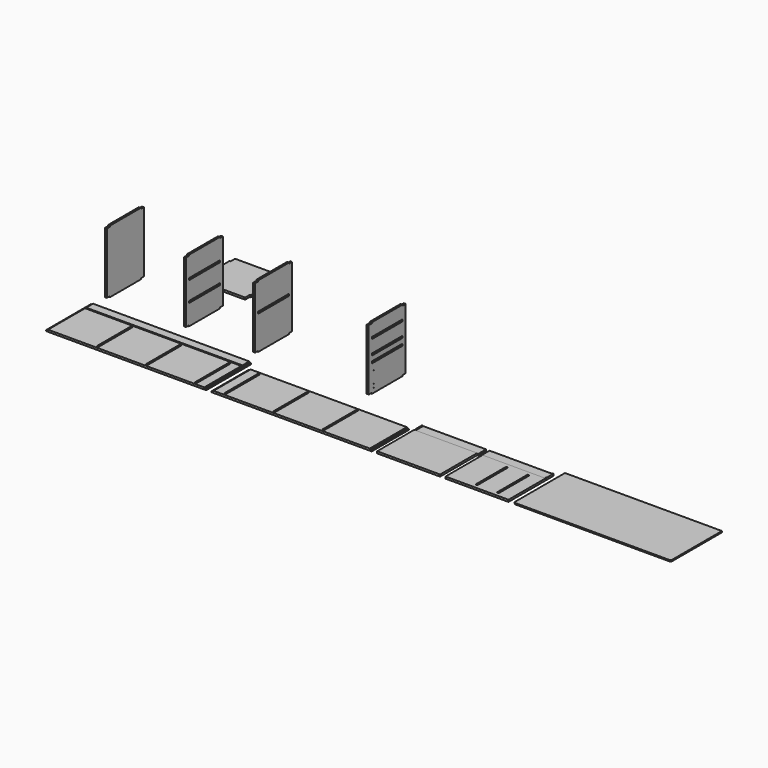
from build123d import *

# Parameters (mm, degrees)
F3_W      = 1480
F3_H      = 520
F4_DEPTH  = 18
F5_W      = 1444
F5_H      = 12.5
F6_DEPTH  = 9
F7_W      = 1480
F7_H      = 428
F8_DEPTH  = 18
F9_W      = 18
F9_H      = 428
F10_DEPTH = 9
F11_W     = 582
F11_H     = 520
F12_DEPTH = 18
F13_W     = 582
F13_H     = 92
F14_DEPTH = 4
F15_W     = 582
F15_H     = 520
F16_DEPTH = 18
F17_W     = 582
F17_H     = 92
F18_DEPTH = 4
F19_W     = 92
F19_H     = 14
F20_DEPTH = 9
F21_W     = 92
F21_H     = 14
F22_DEPTH = 9
F23_W     = 9
F23_H     = 79.5
F24_DEPTH = 4
F25_W     = 9
F25_H     = 79.5
F26_DEPTH = 4
F28_DEPTH = 12
F29_W     = 428
F29_H     = 564
F30_DEPTH = 18
F31_W     = 18
F31_H     = 356
F32_DEPTH = 9
F33_W     = 18
F33_H     = 356
F34_DEPTH = 9
F38_W     = 356
F38_H     = 18
F39_DEPTH = 9
F40_W     = 356
F40_H     = 18
F41_DEPTH = 9
F42_DEPTH = 18
F43_W     = 356
F43_H     = 18
F44_DEPTH = 18
F43_R     = 1
F45_DEPTH = 9
F46_W     = 18
F46_H     = 356
F47_DEPTH = 9
F48_W     = 435.3333
F48_H     = 428
F49_DEPTH = 18
F50_W     = 320
F50_H     = 18
F51_DEPTH = 9
F52_W     = 320
F52_H     = 18
F53_DEPTH = 9
F54_R     = 5
F54_2_R   = 5
F54_3_R   = 5
F54_4_R   = 5


with BuildPart() as f4:
    # F3 (on Top) → F4 (new body)
    with BuildSketch(Plane.XY):
        with Locations((740, 260)):
            Rectangle(F3_W, F3_H)
    extrude(amount=F4_DEPTH)

    # F5 (on face) → F6 (cut)
    with BuildSketch(Plane.XY.offset(18)):
        with BuildLine():
            ThreePointArc((9, 433), (10.4644660941, 429.4644660941), (14, 428))
            Line((14, 428), (18, 428))
            Line((18, 428), (18, 440.5))
            Line((18, 440.5), (14, 440.5))
            ThreePointArc((14, 440.5), (10.4644660941, 439.0355339059), (9, 435.5))
            Line((9, 435.5), (9, 433))
        make_face()
        with BuildLine():
            Line((18, 428), (14, 428))
            ThreePointArc((14, 428), (10.4644660941, 429.4644660941), (9, 433))
            Line((9, 433), (9, 435.5))
            ThreePointArc((9, 435.5), (10.4644660941, 439.0355339059), (14, 440.5))
            Line((14, 440.5), (18, 440.5))
            Line((18, 440.5), (18, 520))
            Line((18, 520), (0, 520))
            Line((0, 520), (0, 0))
            Line((0, 0), (18, 0))
            Line((18, 0), (18, 428))
        make_face()
        with Locations((740, 434.25)):
            Rectangle(F5_W, F5_H)
        with BuildLine():
            Line((1462, 440.5), (1462, 428))
            Line((1462, 428), (1466, 428))
            ThreePointArc((1466, 428), (1469.5355339059, 429.4644660941), (1471, 433))
            Line((1471, 433), (1471, 435.5))
            ThreePointArc((1471, 435.5), (1469.5355339059, 439.0355339059), (1466, 440.5))
            Line((1466, 440.5), (1462, 440.5))
        make_face()
        with BuildLine():
            Line((1466, 428), (1462, 428))
            Line((1462, 428), (1462, 0))
            Line((1462, 0), (1480, 0))
            Line((1480, 0), (1480, 520))
            Line((1480, 520), (1462, 520))
            Line((1462, 520), (1462, 440.5))
            Line((1462, 440.5), (1466, 440.5))
            ThreePointArc((1466, 440.5), (1469.5355339059, 439.0355339059), (1471, 435.5))
            Line((1471, 435.5), (1471, 433))
            ThreePointArc((1471, 433), (1469.5355339059, 429.4644660941), (1466, 428))
        make_face()
        with BuildLine():
            ThreePointArc((453.3334, 23), (454.7978660941, 19.4644660941), (458.3334, 18))
            Line((458.3334, 18), (466.3334, 18))
            ThreePointArc((466.3334, 18), (469.8689339059, 19.4644660941), (471.3334, 23))
            Line((471.3334, 23), (471.3334, 405))
            ThreePointArc((471.3334, 405), (469.8689339059, 408.5355339059), (466.3334, 410))
            Line((466.3334, 410), (458.3334, 410))
            ThreePointArc((458.3334, 410), (454.7978660941, 408.5355339059), (453.3334, 405))
            Line((453.3334, 405), (453.3334, 23))
        make_face()
        with BuildLine():
            ThreePointArc((906.6667, 23), (908.1311660941, 19.4644660941), (911.6667, 18))
            Line((911.6667, 18), (919.6667, 18))
            ThreePointArc((919.6667, 18), (923.2022339059, 19.4644660941), (924.6667, 23))
            Line((924.6667, 23), (924.6667, 405))
            ThreePointArc((924.6667, 405), (923.2022339059, 408.5355339059), (919.6667, 410))
            Line((919.6667, 410), (911.6667, 410))
            ThreePointArc((911.6667, 410), (908.1311660941, 408.5355339059), (906.6667, 405))
            Line((906.6667, 405), (906.6667, 23))
        make_face()
        with BuildLine():
            ThreePointArc((1360, 23), (1361.4644660941, 19.4644660941), (1365, 18))
            Line((1365, 18), (1373, 18))
            ThreePointArc((1373, 18), (1376.5355339059, 19.4644660941), (1378, 23))
            Line((1378, 23), (1378, 405))
            ThreePointArc((1378, 405), (1376.5355339059, 408.5355339059), (1373, 410))
            Line((1373, 410), (1365, 410))
            ThreePointArc((1365, 410), (1361.4644660941, 408.5355339059), (1360, 405))
            Line((1360, 405), (1360, 23))
        make_face()
    extrude(amount=-F6_DEPTH, mode=Mode.SUBTRACT)


with BuildPart() as f8:
    # F7 (on Top) → F8 (new body)
    with BuildSketch(Plane.XY):
        with Locations((2270, 214)):
            Rectangle(F7_W, F7_H)
    extrude(amount=F8_DEPTH)

    # F9 (on face) → F10 (cut)
    with BuildSketch(Plane.XY.offset(18)):
        with Locations((1539, 214)):
            Rectangle(F9_W, F9_H)
        with Locations((3001, 214)):
            Rectangle(F9_W, F9_H)
        with BuildLine():
            ThreePointArc((1632, 23), (1633.4644660941, 19.4644660941), (1637, 18))
            Line((1637, 18), (1645, 18))
            ThreePointArc((1645, 18), (1648.5355339059, 19.4644660941), (1650, 23))
            Line((1650, 23), (1650, 405))
            ThreePointArc((1650, 405), (1648.5355339059, 408.5355339059), (1645, 410))
            Line((1645, 410), (1637, 410))
            ThreePointArc((1637, 410), (1633.4644660941, 408.5355339059), (1632, 405))
            Line((1632, 405), (1632, 23))
        make_face()
        with BuildLine():
            ThreePointArc((2085.3333, 23), (2086.7977660941, 19.4644660941), (2090.3333, 18))
            Line((2090.3333, 18), (2098.3333, 18))
            ThreePointArc((2098.3333, 18), (2101.8688339059, 19.4644660941), (2103.3333, 23))
            Line((2103.3333, 23), (2103.3333, 405))
            ThreePointArc((2103.3333, 405), (2101.8688339059, 408.5355339059), (2098.3333, 410))
            Line((2098.3333, 410), (2090.3333, 410))
            ThreePointArc((2090.3333, 410), (2086.7977660941, 408.5355339059), (2085.3333, 405))
            Line((2085.3333, 405), (2085.3333, 23))
        make_face()
        with BuildLine():
            ThreePointArc((2538.6666, 23), (2540.1310660941, 19.4644660941), (2543.6666, 18))
            Line((2543.6666, 18), (2551.6666, 18))
            ThreePointArc((2551.6666, 18), (2555.2021339059, 19.4644660941), (2556.6666, 23))
            Line((2556.6666, 23), (2556.6666, 405))
            ThreePointArc((2556.6666, 405), (2555.2021339059, 408.5355339059), (2551.6666, 410))
            Line((2551.6666, 410), (2543.6666, 410))
            ThreePointArc((2543.6666, 410), (2540.1310660941, 408.5355339059), (2538.6666, 405))
            Line((2538.6666, 405), (2538.6666, 23))
        make_face()
    extrude(amount=-F10_DEPTH, mode=Mode.SUBTRACT)


with BuildPart() as f12:
    # F11 (on Top) → F12 (new body)
    with BuildSketch(Plane.XY):
        with Locations((3351, 260)):
            Rectangle(F11_W, F11_H)
    extrude(amount=F12_DEPTH)

    # F13 (on face) → F14 (cut)
    with BuildSketch(Plane.XY.offset(18)):
        with Locations((3351, 474)):
            Rectangle(F13_W, F13_H)
    extrude(amount=-F14_DEPTH, mode=Mode.SUBTRACT)

    # F21 (on face) → F22 (join)
    with BuildSketch(Plane.YZ.offset(3642)):
        with Locations((474, 7)):
            Rectangle(F21_W, F21_H)
    extrude(amount=F22_DEPTH)

    # F23 (on face) → F24 (join)
    with BuildSketch(Plane.XY.offset(14)):
        with Locations((3064.5, 480.25)):
            Rectangle(F23_W, F23_H)
    extrude(amount=F24_DEPTH)

    # F54#2
    f54_2_edges = [f12.edges().sort_by_distance(p)[0] for p in [
        (3642, 428, 7),
    ]]
    fillet(f54_2_edges, radius=F54_2_R)


with BuildPart() as f16:
    # F15 (on Top) → F16 (new body)
    with BuildSketch(Plane.XY):
        with Locations((3983, 260)):
            Rectangle(F15_W, F15_H)
    extrude(amount=F16_DEPTH)

    # F17 (on face) → F18 (cut)
    with BuildSketch(Plane.XY.offset(18)):
        with Locations((3983, 474)):
            Rectangle(F17_W, F17_H)
    extrude(amount=-F18_DEPTH, mode=Mode.SUBTRACT)

    # F19 (on face) → F20 (join)
    with BuildSketch(Plane(origin=(3692, 0, 0), x_dir=(0, -1, 0), z_dir=(-1, 0, 0))):
        with Locations((-474, 7)):
            Rectangle(F19_W, F19_H)
    extrude(amount=F20_DEPTH)

    # F25 (on face) → F26 (join)
    with BuildSketch(Plane.XY.offset(14)):
        with Locations((4269.5, 480.25)):
            Rectangle(F25_W, F25_H)
    extrude(amount=F26_DEPTH)

    # F46 (on face) → F47 (cut)
    with BuildSketch(Plane.XY.offset(18)):
        with Locations((4146, 214)):
            Rectangle(F46_W, F46_H)
        with Locations((3948, 214)):
            Rectangle(F46_W, F46_H)
    extrude(amount=-F47_DEPTH, mode=Mode.SUBTRACT)

    # F54#3
    f54_3_edges = [f16.edges().sort_by_distance(p)[0] for p in [
        (3692, 428, 7),
    ]]
    fillet(f54_3_edges, radius=F54_3_R)


with BuildPart() as f28:
    # F27 (on Top) → F28 (new body)
    with BuildSketch(Plane.XY):
        Polygon((4324, 10), (4334, 0), (5765, 0), (5775, 10), (5775, 590), (4324, 590), align=None)
    extrude(amount=F28_DEPTH)


with BuildPart() as f30:
    # F29 (on Right) → F30 (new body)
    with BuildSketch(Plane.YZ):
        with Locations((893.9852348983, 282)):
            Rectangle(F29_W, F29_H)
    extrude(amount=F30_DEPTH)

    # F31 (on face) → F32 (join)
    with BuildSketch(Plane(origin=(0, 0, 0), x_dir=(1, 0, 0), z_dir=(0, 0, -1))):
        with Locations((9, -893.9852348983)):
            Rectangle(F31_W, F31_H)
    extrude(amount=F32_DEPTH)

    # F33 (on face) → F34 (join)
    with BuildSketch(Plane.XY.offset(564)):
        with Locations((9, 893.9852348983)):
            Rectangle(F33_W, F33_H)
    extrude(amount=F34_DEPTH)


with BuildPart() as f35_1:
    # F35: copy of F30
    add(f30.part.moved(Location((730, 0, 0))))

    # F38 (on face) → F39 (cut)
    with BuildSketch(Plane.YZ.offset(748)):
        with Locations((893.9852348983, 375)):
            Rectangle(F38_W, F38_H)
        with Locations((893.9852348983, 189)):
            Rectangle(F38_W, F38_H)
    extrude(amount=-F39_DEPTH, mode=Mode.SUBTRACT)


with BuildPart() as f36_1:
    # F36: copy of F30
    add(f30.part.moved(Location((1370, 0, 0))))

    # F40 (on face) → F41 (cut)
    with BuildSketch(Plane(origin=(1370, 0, 0), x_dir=(0, -1, 0), z_dir=(-1, 0, 0))):
        with Locations((-893.9852348983, 375)):
            Rectangle(F40_W, F40_H)
        with Locations((-893.9852348983, 189)):
            Rectangle(F40_W, F40_H)
    extrude(amount=-F41_DEPTH, mode=Mode.SUBTRACT)

    # F40 (on face) → F42 (cut)
    with BuildSketch(Plane(origin=(1370, 0, 0), x_dir=(0, -1, 0), z_dir=(-1, 0, 0))):
        with Locations((-893.9852348983, 311)):
            Rectangle(F40_W, F40_H)
    extrude(amount=-F42_DEPTH, mode=Mode.SUBTRACT)


with BuildPart() as f37_1:
    # F37: copy of F30
    add(f30.part.moved(Location((2420, 0, 0))))

    # F43 (on face) → F44 (cut)
    with BuildSketch(Plane.YZ.offset(2438)):
        with Locations((893.9852348983, 311)):
            Rectangle(F43_W, F43_H)
    extrude(amount=-F44_DEPTH, mode=Mode.SUBTRACT)

    # F43 (on face) → F45 (cut)
    with BuildSketch(Plane.YZ.offset(2438)):
        with Locations((893.9852348983, 445)):
            Rectangle(F43_W, F43_H)
        with Locations((893.9852348983, 247)):
            Rectangle(F43_W, F43_H)
        with Locations((737.9852348983, 206)):
            Circle(F43_R)
        with Locations((737.9852348983, 174)):
            Circle(F43_R)
        with Locations((737.9852348983, 64)):
            Circle(F43_R)
        with Locations((737.9852348983, 32)):
            Circle(F43_R)
    extrude(amount=-F45_DEPTH, mode=Mode.SUBTRACT)


with BuildPart() as f49:
    # F48 (on Top) → F49 (new body)
    with BuildSketch(Plane.XY):
        with Locations((597.4560554549, 1494.6767687798)):
            Rectangle(F48_W, F48_H)
    extrude(amount=F49_DEPTH)

    # F50 (on face) → F51 (join)
    with BuildSketch(Plane.YZ.offset(815.1227054549)):
        with Locations((1494.6767687798, 9)):
            Rectangle(F50_W, F50_H)
    extrude(amount=F51_DEPTH)

    # F52 (on face) → F53 (join)
    with BuildSketch(Plane(origin=(379.7894054549, 0, 0), x_dir=(0, -1, 0), z_dir=(-1, 0, 0))):
        with Locations((-1494.6767687798, 9)):
            Rectangle(F52_W, F52_H)
    extrude(amount=F53_DEPTH)

    # F54#4
    f54_4_edges = [f49.edges().sort_by_distance(p)[0] for p in [
        (379.789405, 1334.676769, 9),
        (379.789405, 1654.676769, 9),
        (815.122705, 1654.676769, 9),
        (815.122705, 1334.676769, 9),
    ]]
    fillet(f54_4_edges, radius=F54_4_R)


with BuildPart() as f30_1:
    add(f30.part)

    # F54
    f54_edges = [f30_1.edges().sort_by_distance(p)[0] for p in [
        (9, 715.985235, 0),
        (9, 1071.985235, 0),
        (9, 715.985235, 564),
        (9, 1071.985235, 564),
    ]]
    fillet(f54_edges, radius=F54_R)


solid = Compound([f4.part, f8.part, f12.part, f16.part, f28.part, f35_1.part, f36_1.part, f37_1.part, f49.part, f30_1.part])
